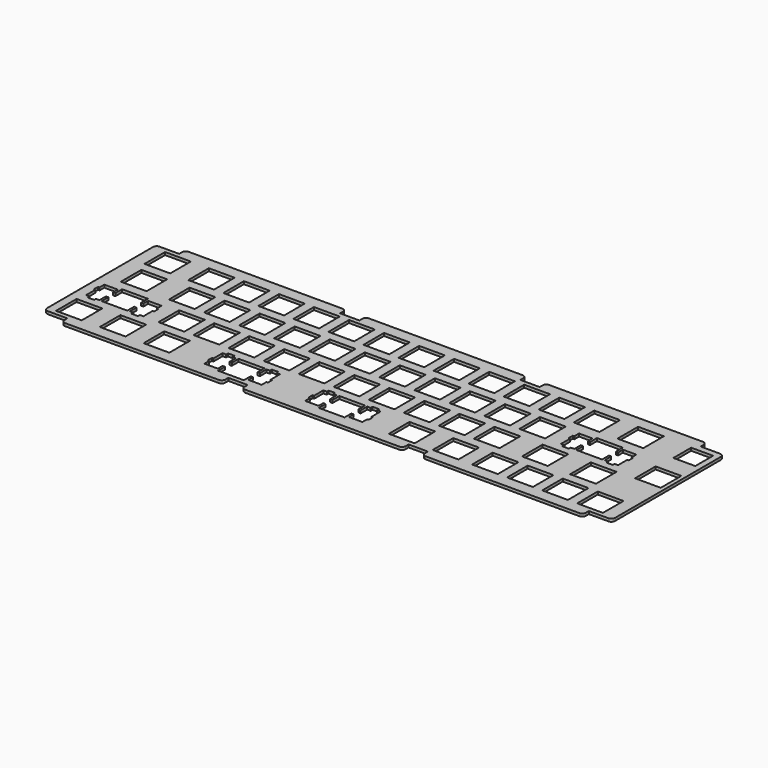
from build123d import *

# Parameters (mm, degrees)
PAD_DEPTH            = 1.5
POCKET001_DEPTH      = 1.501
POCKET002_DEPTH      = 1.501
POCKET004_DEPTH      = 1.501
SKETCH084_W          = 14
SKETCH084_H          = 14
SKETCH084_W_2        = 11.9
SKETCH084_H_2        = 12.1
POCKET007_DEPTH      = 1.501
SKETCH085_W          = 14
SKETCH085_H          = 14
POCKET008_DEPTH      = 1.501
SKETCH086_W          = 14
SKETCH086_H          = 14
POCKET009_DEPTH      = 1.501
SKETCH087_W          = 14
SKETCH087_H          = 14
POCKET010_DEPTH      = 1.501
SKETCH088_W          = 14
SKETCH088_H          = 14
POCKET011_DEPTH      = 1.501
SKETCH089_W          = 14
SKETCH089_H          = 14
POCKET012_DEPTH      = 0.001
POCKET012_DEPTH_BACK = 1.501
POCKET_DEPTH         = 1.501


with BuildPart() as part:
    # Sketch002 → Pad (new body)
    with BuildSketch(Plane.XY):
        with BuildLine():
            Line((306.6375, -4.65), (306.6375, -76.6))
            ThreePointArc((304.6375, -78.6), (306.051714, -78.014214), (306.6375, -76.6))
            Line((304.6375, -78.6), (294.006, -78.6))
            Line((294.006, -78.6), (294.006, -80.6))
            ThreePointArc((292.006, -82.6), (293.420214, -82.014214), (294.006, -80.6))
            Line((292.006, -82.6), (208.506, -82.6))
            ThreePointArc((206.506, -80.6), (207.091786, -82.014214), (208.506, -82.6))
            Line((206.506, -80.6), (206.506, -78.6))
            Line((206.506, -78.6), (196.006, -78.6))
            Line((196.006, -78.6), (196.006, -80.6))
            ThreePointArc((194.006, -82.6), (195.420214, -82.014214), (196.006, -80.6))
            Line((194.006, -82.6), (110.506, -82.6))
            ThreePointArc((108.506, -80.6), (109.091786, -82.014214), (110.506, -82.6))
            Line((108.506, -80.6), (108.506, -78.6))
            Line((108.506, -78.6), (98.006, -78.6))
            Line((98.006, -78.6), (98.006, -80.6))
            ThreePointArc((96.006, -82.6), (97.420214, -82.014214), (98.006, -80.6))
            Line((96.006, -82.6), (12.506, -82.6))
            ThreePointArc((10.506, -80.6), (11.091786, -82.014214), (12.506, -82.6))
            Line((10.506, -80.6), (10.506, -78.6))
            Line((10.506, -78.6), (-0.125, -78.6))
            ThreePointArc((-2.125, -76.6), (-1.539214, -78.014214), (-0.125, -78.6))
            Line((-2.125, -76.6), (-2.125, -4.65))
            ThreePointArc((-0.125, -2.65), (-1.539214, -3.235786), (-2.125, -4.65))
            Line((10.506, -2.65), (-0.125, -2.65))
            Line((10.506, -2.65), (10.506, -0.65))
            ThreePointArc((12.506, 1.35), (11.091786, 0.764214), (10.506, -0.65))
            Line((12.506, 1.35), (96.006, 1.35))
            ThreePointArc((98.006, -0.65), (97.420214, 0.764214), (96.006, 1.35))
            Line((98.006, -0.65), (98.006, -2.65))
            Line((108.506, -2.65), (98.006, -2.65))
            Line((108.506, -2.65), (108.506, -0.65))
            ThreePointArc((110.506, 1.35), (109.091786, 0.764214), (108.506, -0.65))
            Line((110.506, 1.35), (194.006, 1.35))
            ThreePointArc((196.006, -0.65), (195.420214, 0.764214), (194.006, 1.35))
            Line((196.006, -0.65), (196.006, -2.65))
            Line((206.506, -2.65), (196.006, -2.65))
            Line((206.506, -2.65), (206.506, -0.65))
            ThreePointArc((208.506, 1.35), (207.091786, 0.764214), (206.506, -0.65))
            Line((208.506, 1.35), (292.006, 1.35))
            ThreePointArc((294.006, -0.65), (293.420214, 0.764214), (292.006, 1.35))
            Line((294.006, -0.65), (294.006, -2.65))
            Line((304.6375, -2.65), (294.006, -2.65))
            ThreePointArc((306.6375, -4.65), (306.051714, -3.235786), (304.6375, -2.65))
        make_face()
    extrude(amount=PAD_DEPTH)

    # Sketch050 → Pocket001 (cut, through all)
    with BuildSketch(Plane(origin=(268.794, -24.1, 0), x_dir=(-1, 0, 0), z_dir=(0, 0, 1))):
        Polygon((-8.5725, 7.540625), (-9.36625, 7.540625), (-9.36625, 4.683125), (-8.5725, 4.683125), (-8.5725, 1.42875), (-1.27, 1.42875), (-1.27, 4.60375), (0, 4.60375), (0, 0), (14, 0), (14, 4.60375), (15.27, 4.60375), (15.27, 1.42875), (22.5725, 1.42875), (22.5725, 4.683125), (23.36625, 4.683125), (23.36625, 7.540625), (22.5725, 7.540625), (22.5725, 13.81125), (20.6675, 13.81125), (20.6675, 15.08125), (17.175, 15.08125), (17.175, 13.81125), (15.27, 13.81125), (15.27, 9.36625), (14, 9.36625), (14, 14), (0, 14), (0, 9.36625), (-1.27, 9.36625), (-1.27, 13.81125), (-3.175, 13.81125), (-3.175, 15.08125), (-6.6675, 15.08125), (-6.6675, 13.81125), (-8.5725, 13.81125), align=None)
    extrude(amount=POCKET001_DEPTH, mode=Mode.SUBTRACT)

    # Sketch052 → Pocket002 (cut, through all)
    with BuildSketch(Plane(origin=(25.9063, -43.15, 0), x_dir=(-1, 0, 0), z_dir=(0, 0, 1))):
        Polygon((-8.5725, 7.540625), (-9.36625, 7.540625), (-9.36625, 4.683125), (-8.5725, 4.683125), (-8.5725, 1.42875), (-1.27, 1.42875), (-1.27, 4.60375), (0, 4.60375), (0, 0), (14, 0), (14, 4.60375), (15.27, 4.60375), (15.27, 1.42875), (22.5725, 1.42875), (22.5725, 4.683125), (23.36625, 4.683125), (23.36625, 7.540625), (22.5725, 7.540625), (22.5725, 13.81125), (20.6675, 13.81125), (20.6675, 15.08125), (17.175, 15.08125), (17.175, 13.81125), (15.27, 13.81125), (15.27, 9.36625), (14, 9.36625), (14, 14), (0, 14), (0, 9.36625), (-1.27, 9.36625), (-1.27, 13.81125), (-3.175, 13.81125), (-3.175, 15.08125), (-6.6675, 15.08125), (-6.6675, 13.81125), (-8.5725, 13.81125), align=None)
    extrude(amount=POCKET002_DEPTH, mode=Mode.SUBTRACT)

    # Sketch072 → Pocket004 (cut, through all)
    with BuildSketch(Plane(origin=(145.256, -76.2, 0), x_dir=(1, 0, 0), z_dir=(0, 0, 1))):
        Polygon((-8.5725, 7.540625), (-9.36625, 7.540625), (-9.36625, 4.683125), (-8.5725, 4.683125), (-8.5725, 1.42875), (-1.27, 1.42875), (-1.27, 4.60375), (0, 4.60375), (0, 0), (14, 0), (14, 4.60375), (15.27, 4.60375), (15.27, 1.42875), (22.5725, 1.42875), (22.5725, 4.683125), (23.36625, 4.683125), (23.36625, 7.540625), (22.5725, 7.540625), (22.5725, 13.81125), (20.6675, 13.81125), (20.6675, 15.08125), (17.175, 15.08125), (17.175, 13.81125), (15.27, 13.81125), (15.27, 9.36625), (14, 9.36625), (14, 14), (0, 14), (0, 9.36625), (-1.27, 9.36625), (-1.27, 13.81125), (-3.175, 13.81125), (-3.175, 15.08125), (-6.6675, 15.08125), (-6.6675, 13.81125), (-8.5725, 13.81125), align=None)
    extrude(amount=POCKET004_DEPTH, mode=Mode.SUBTRACT)

    # Sketch084 → Pocket007 (cut, through all)
    with BuildSketch(Plane(origin=(28.575, -19.05, 0), x_dir=(1, 0, 0), z_dir=(0, 0, 1))):
        with Locations((26.05, 7)):
            Rectangle(SKETCH084_W, SKETCH084_H)
        with Locations((7, 7)):
            Rectangle(SKETCH084_W, SKETCH084_H)
        with Locations((45.1, 7)):
            Rectangle(SKETCH084_W, SKETCH084_H)
        with Locations((64.15, 7)):
            Rectangle(SKETCH084_W, SKETCH084_H)
        with Locations((83.2, 7)):
            Rectangle(SKETCH084_W, SKETCH084_H)
        with Locations((102.25, 7)):
            Rectangle(SKETCH084_W, SKETCH084_H)
        with Locations((121.3, 7)):
            Rectangle(SKETCH084_W, SKETCH084_H)
        with Locations((140.35, 7)):
            Rectangle(SKETCH084_W, SKETCH084_H)
        with Locations((159.4, 7)):
            Rectangle(SKETCH084_W, SKETCH084_H)
        with Locations((178.45, 7)):
            Rectangle(SKETCH084_W, SKETCH084_H)
        with Locations((197.5, 7)):
            Rectangle(SKETCH084_W, SKETCH084_H)
        with Locations((216.55, 7)):
            Rectangle(SKETCH084_W, SKETCH084_H)
        with Locations((268.9375, 7)):
            Rectangle(SKETCH084_W_2, SKETCH084_H_2)
    extrude(amount=POCKET007_DEPTH, mode=Mode.SUBTRACT)

    # Sketch085 → Pocket008 (cut, through all)
    with BuildSketch(Plane(origin=(33.3375, -38.1, 0), x_dir=(1, 0, 0), z_dir=(0, 0, 1))):
        with Locations((26.05, 7)):
            Rectangle(SKETCH085_W, SKETCH085_H)
        with Locations((7, 7)):
            Rectangle(SKETCH085_W, SKETCH085_H)
        with Locations((45.1, 7)):
            Rectangle(SKETCH085_W, SKETCH085_H)
        with Locations((64.15, 7)):
            Rectangle(SKETCH085_W, SKETCH085_H)
        with Locations((83.2, 7)):
            Rectangle(SKETCH085_W, SKETCH085_H)
        with Locations((102.25, 7)):
            Rectangle(SKETCH085_W, SKETCH085_H)
        with Locations((121.3, 7)):
            Rectangle(SKETCH085_W, SKETCH085_H)
        with Locations((140.35, 7)):
            Rectangle(SKETCH085_W, SKETCH085_H)
        with Locations((159.4, 7)):
            Rectangle(SKETCH085_W, SKETCH085_H)
        with Locations((178.45, 7)):
            Rectangle(SKETCH085_W, SKETCH085_H)
        with Locations((197.5, 7)):
            Rectangle(SKETCH085_W, SKETCH085_H)
        with Locations((264.175, 2.2375)):
            Rectangle(SKETCH085_W, SKETCH085_H)
    extrude(amount=POCKET008_DEPTH, mode=Mode.SUBTRACT)

    # Sketch086 → Pocket009 (cut, through all)
    with BuildSketch(Plane(origin=(42.8625, -57.15, 0), x_dir=(1, 0, 0), z_dir=(0, 0, 1))):
        with Locations((26.05, 7)):
            Rectangle(SKETCH086_W, SKETCH086_H)
        with Locations((7, 7)):
            Rectangle(SKETCH086_W, SKETCH086_H)
        with Locations((45.1, 7)):
            Rectangle(SKETCH086_W, SKETCH086_H)
        with Locations((64.15, 7)):
            Rectangle(SKETCH086_W, SKETCH086_H)
        with Locations((83.2, 7)):
            Rectangle(SKETCH086_W, SKETCH086_H)
        with Locations((102.25, 7)):
            Rectangle(SKETCH086_W, SKETCH086_H)
        with Locations((121.3, 7)):
            Rectangle(SKETCH086_W, SKETCH086_H)
        with Locations((140.35, 7)):
            Rectangle(SKETCH086_W, SKETCH086_H)
        with Locations((159.4, 7)):
            Rectangle(SKETCH086_W, SKETCH086_H)
        with Locations((178.45, 7)):
            Rectangle(SKETCH086_W, SKETCH086_H)
        with Locations((230.8375, 7)):
            Rectangle(SKETCH086_W, SKETCH086_H)
    extrude(amount=POCKET009_DEPTH, mode=Mode.SUBTRACT)

    # Sketch087 → Pocket010 (cut, through all)
    with BuildSketch(Plane(origin=(2.38125, -76.2, 0), x_dir=(1, 0, 0), z_dir=(0, 0, 1))):
        with Locations((30.8125, 7)):
            Rectangle(SKETCH087_W, SKETCH087_H)
        with Locations((7, 7)):
            Rectangle(SKETCH087_W, SKETCH087_H)
        with Locations((54.625, 7)):
            Rectangle(SKETCH087_W, SKETCH087_H)
    extrude(amount=POCKET010_DEPTH, mode=Mode.SUBTRACT)

    # Sketch088 → Pocket011 (cut, through all)
    with BuildSketch(Plane(origin=(0, -76.2, 0), x_dir=(1, 0, 0), z_dir=(0, 0, 1))):
        with Locations((190.35625, 7)):
            Rectangle(SKETCH088_W, SKETCH088_H)
        with Locations((214.16875, 7)):
            Rectangle(SKETCH088_W, SKETCH088_H)
        with Locations((235.6, 7)):
            Rectangle(SKETCH088_W, SKETCH088_H)
        with Locations((254.65, 7)):
            Rectangle(SKETCH088_W, SKETCH088_H)
        with Locations((273.7, 7)):
            Rectangle(SKETCH088_W, SKETCH088_H)
        with Locations((292.75, 7)):
            Rectangle(SKETCH088_W, SKETCH088_H)
    extrude(amount=POCKET011_DEPTH, mode=Mode.SUBTRACT)

    # Sketch089 → Pocket012 (cut, two sides)
    with BuildSketch(Plane.XY) as pocket012_sk:
        with Locations((14.14375, -31.1)):
            Rectangle(SKETCH089_W, SKETCH089_H)
        with Locations((11.7625, -12.05)):
            Rectangle(SKETCH089_W, SKETCH089_H)
        with Locations((268.9375, -12.05)):
            Rectangle(SKETCH089_W, SKETCH089_H)
        with Locations((247.50625, -50.15)):
            Rectangle(SKETCH089_W, SKETCH089_H)
    extrude(amount=-POCKET012_DEPTH, mode=Mode.SUBTRACT)
    extrude(pocket012_sk.sketch, amount=POCKET012_DEPTH_BACK, mode=Mode.SUBTRACT)

    # Sketch090 → Pocket (cut, through all)
    with BuildSketch(Plane(origin=(90.49, -76.2, 0), x_dir=(1, 0, 0), z_dir=(0, 0, 1))):
        Polygon((-8.5725, 7.540625), (-9.36625, 7.540625), (-9.36625, 4.683125), (-8.5725, 4.683125), (-8.5725, 1.42875), (-1.27, 1.42875), (-1.27, 4.60375), (0, 4.60375), (0, 0), (14, 0), (14, 4.60375), (15.27, 4.60375), (15.27, 1.42875), (22.5725, 1.42875), (22.5725, 4.683125), (23.36625, 4.683125), (23.36625, 7.540625), (22.5725, 7.540625), (22.5725, 13.81125), (20.6675, 13.81125), (20.6675, 15.08125), (17.175, 15.08125), (17.175, 13.81125), (15.27, 13.81125), (15.27, 9.36625), (14, 9.36625), (14, 14), (0, 14), (0, 9.36625), (-1.27, 9.36625), (-1.27, 13.81125), (-3.175, 13.81125), (-3.175, 15.08125), (-6.6675, 15.08125), (-6.6675, 13.81125), (-8.5725, 13.81125), align=None)
    extrude(amount=POCKET_DEPTH, mode=Mode.SUBTRACT)


solid = part.part
